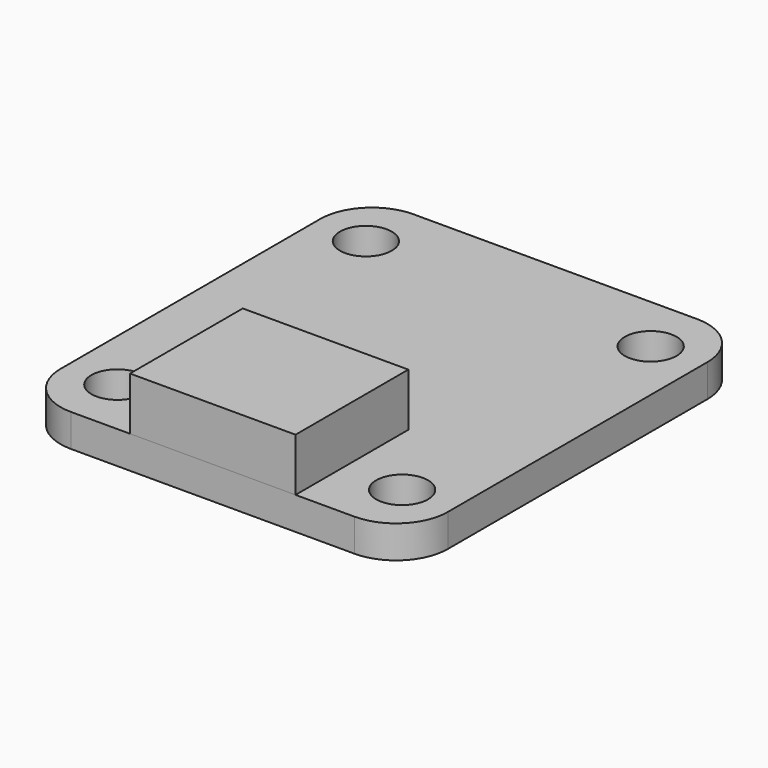
from build123d import *

# Parameters (mm, degrees)
F0_R     = 1.27
F1_DEPTH = 1.6
F2_W     = 8.121148
F2_H     = 6.915383
F3_DEPTH = 2.6


with BuildPart() as f1:
    # F0 (on Top) → F1 (new body)
    with BuildSketch(Plane.XY):
        with BuildLine():
            ThreePointArc((0, 2.54), (0.743949, 0.743949), (2.54, 0))
            Line((2.54, 0), (16.46, 0))
            ThreePointArc((16.46, 0), (18.256051, 0.743949), (19, 2.54))
            Line((19, 2.54), (19, 18.46))
            ThreePointArc((19, 18.46), (18.256051, 20.256051), (16.46, 21))
            Line((16.46, 21), (2.54, 21))
            ThreePointArc((2.54, 21), (0.743949, 20.256051), (0, 18.46))
            Line((0, 18.46), (0, 2.54))
        make_face()
        with Locations((2.515, 2.88)):
            Circle(F0_R, mode=Mode.SUBTRACT)
        with Locations((16.485, 2.88)):
            Circle(F0_R, mode=Mode.SUBTRACT)
        with Locations((2.515, 18.12)):
            Circle(F0_R, mode=Mode.SUBTRACT)
        with Locations((16.485, 18.12)):
            Circle(F0_R, mode=Mode.SUBTRACT)
    extrude(amount=F1_DEPTH)

    # F2 (on face) → F3 (join)
    with BuildSketch(Plane.XY.offset(1.6)):
        with Locations((9.5, 3.457691)):
            Rectangle(F2_W, F2_H)
    extrude(amount=F3_DEPTH)


solid = f1.part
